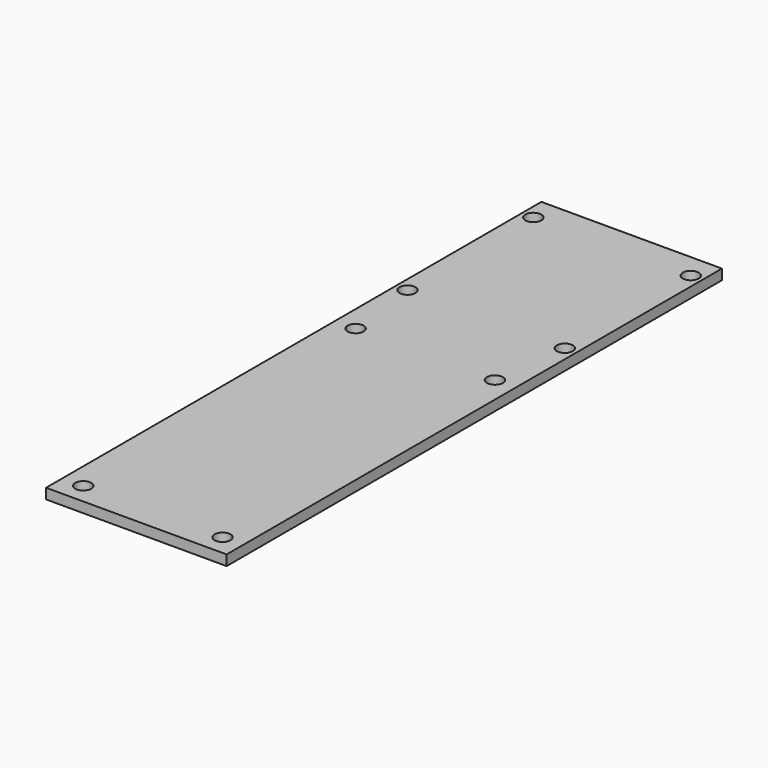
from build123d import *

# Parameters (mm, degrees)
SKETCH_W  = 35
SKETCH_H  = 120
SKETCH_R  = 1.55
PAD_DEPTH = 2


with BuildPart() as part:
    # Sketch → Pad (new body)
    with BuildSketch(Plane.XY):
        with Locations((0, -40)):
            Rectangle(SKETCH_W, SKETCH_H)
        with Locations((-15.25, 15.25)):
            Circle(SKETCH_R, mode=Mode.SUBTRACT)
        with Locations((15.25, 15.25)):
            Circle(SKETCH_R, mode=Mode.SUBTRACT)
        with Locations((-15.25, -15.25)):
            Circle(SKETCH_R, mode=Mode.SUBTRACT)
        with Locations((15.25, -15.25)):
            Circle(SKETCH_R, mode=Mode.SUBTRACT)
        with Locations((-13.5, -96)):
            Circle(SKETCH_R, mode=Mode.SUBTRACT)
        with Locations((13.5, -96)):
            Circle(SKETCH_R, mode=Mode.SUBTRACT)
        with Locations((-13.5, -30)):
            Circle(SKETCH_R, mode=Mode.SUBTRACT)
        with Locations((13.5, -30)):
            Circle(SKETCH_R, mode=Mode.SUBTRACT)
    extrude(amount=PAD_DEPTH)


solid = part.part
